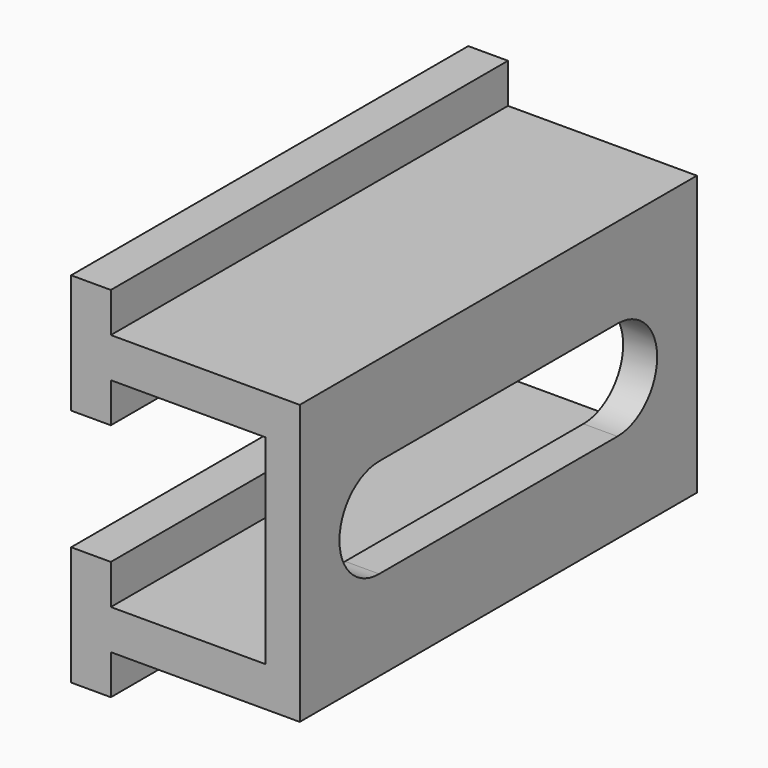
from build123d import *

# Parameters (mm, degrees)
F1_DEPTH = 125
F3_DEPTH = 25


with BuildPart() as f1:
    # F0 (on Front) → F1 (new body)
    with BuildSketch(Plane.XZ):
        Polygon((0, -10), (0, 0), (47.57143, 0), (47.57143, 70.285714), (0, 70.285714), (0, 80.285714), (-10, 80.285714), (-10, 50.285714), (0, 50.285714), (0, 60.285714), (38.999996, 60.285714), (38.999996, 10), (0, 10), (0, 20), (-10, 20), (-10, -10), align=None)
    extrude(amount=F1_DEPTH)

    # F2 (on face) → F3 (cut)
    with BuildSketch(Plane.YZ.offset(47.57143)):
        with BuildLine():
            Line((-25, 47.642857), (-100, 47.642857))
            ThreePointArc((-100, 47.642857), (-112.5, 35.142857), (-100, 22.642857))
            Line((-100, 22.642857), (-25, 22.642857))
            ThreePointArc((-25, 22.642857), (-12.5, 35.142857), (-25, 47.642857))
        make_face()
    extrude(amount=-F3_DEPTH, mode=Mode.SUBTRACT)


solid = f1.part
